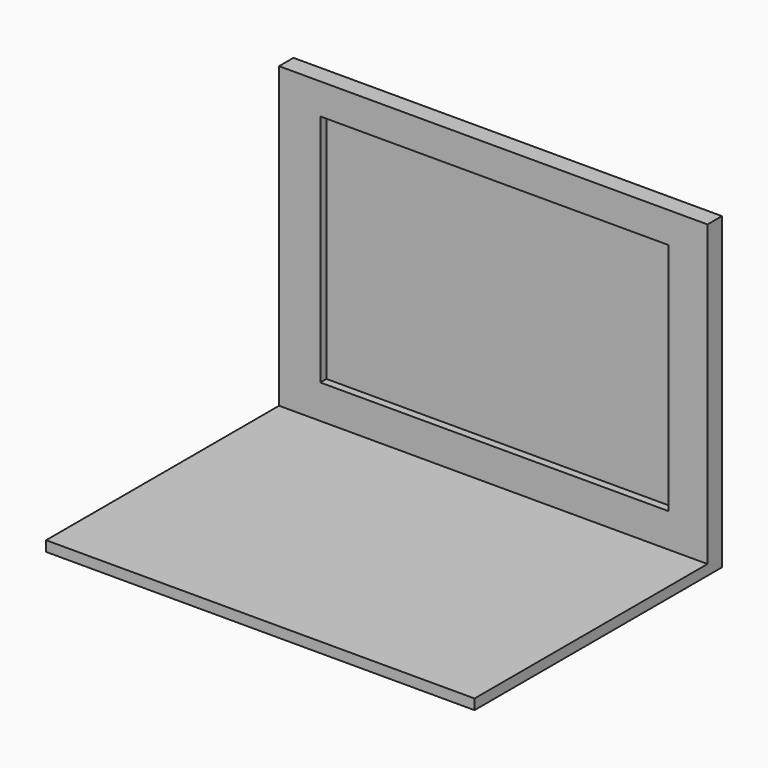
from build123d import *

# Parameters (mm, degrees)
F0_W     = 105.567920953
F0_H     = 76.1951208115
F1_DEPTH = 76.2
F2_T     = -2.54
F3_W     = 105.567920953
F3_H     = 73.66
F3_W_2   = 85.8121328056
F3_H_2   = 57.7212069184
F4_DEPTH = 1.905


with BuildPart() as f1:
    # F0 (on Top) → F1 (new body)
    with BuildSketch(Plane.XY):
        with Locations((7.5357314199, -38.0975604057)):
            Rectangle(F0_W, F0_H)
    extrude(amount=F1_DEPTH)

    # F2
    f2_openings = [f1.faces().sort_by_distance(p)[0] for p in [
        (7.535731, -38.09756, 76.2),
        (7.535731, -76.195121, 38.1),
        (-45.248229, -38.09756, 38.1),
        (60.319692, -38.09756, 38.1),
    ]]
    offset(amount=F2_T, openings=f2_openings)

    # F3 (on face) → F4 (join)
    with BuildSketch(Plane.XZ.offset(2.54)):
        with Locations((7.5357314199, 39.37)):
            Rectangle(F3_W, F3_H)
        with Locations((7.8303422779, 39.7484777495)):
            Rectangle(F3_W_2, F3_H_2, mode=Mode.SUBTRACT)
    extrude(amount=F4_DEPTH)


solid = f1.part
